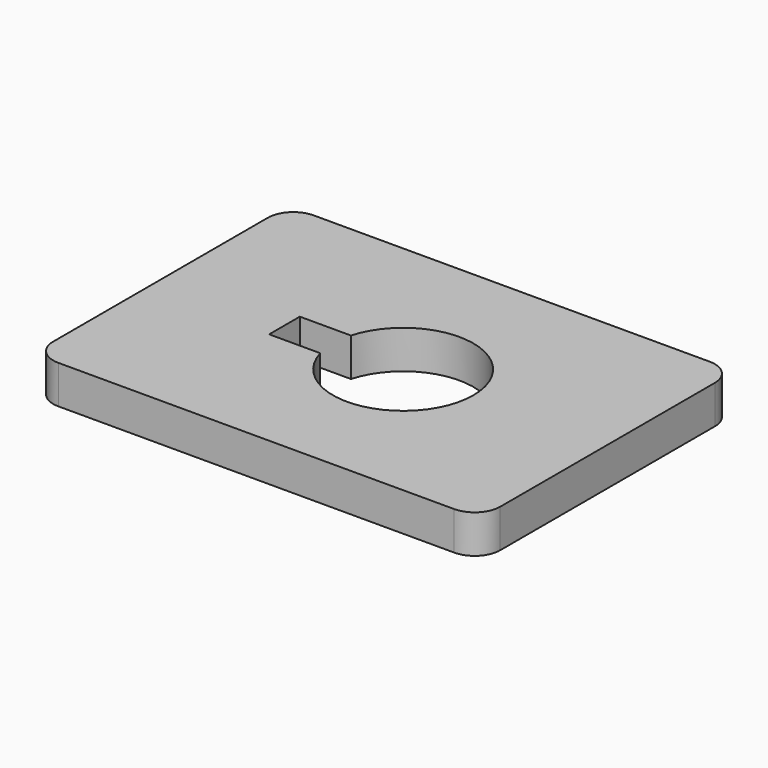
from build123d import *

# Parameters (mm, degrees)
F0_W     = 35
F0_H     = 25
F1_DEPTH = 3
F2_R     = 2


with BuildPart() as f1:
    # F0 (on Top) → F1 (new body)
    with BuildSketch(Plane.XY):
        with Locations((-1.5, 0)):
            Rectangle(F0_W, F0_H)
        with BuildLine():
            ThreePointArc((-5.291503, 1.5), (0.757211, 5.447626), (5.5, 0))
            ThreePointArc((5.5, 0), (0.757211, -5.447626), (-5.291503, -1.5))
            Line((-5.291503, -1.5), (-9.291503, -1.5))
            Line((-9.291503, -1.5), (-9.291503, 1.5))
            Line((-9.291503, 1.5), (-5.291503, 1.5))
        make_face(mode=Mode.SUBTRACT)
    extrude(amount=F1_DEPTH)

    # F2
    f2_edges = [f1.edges().sort_by_distance(p)[0] for p in [
        (-19, -12.5, 1.5),
        (16, -12.5, 1.5),
        (16, 12.5, 1.5),
        (-19, 12.5, 1.5),
    ]]
    fillet(f2_edges, radius=F2_R)


solid = f1.part
